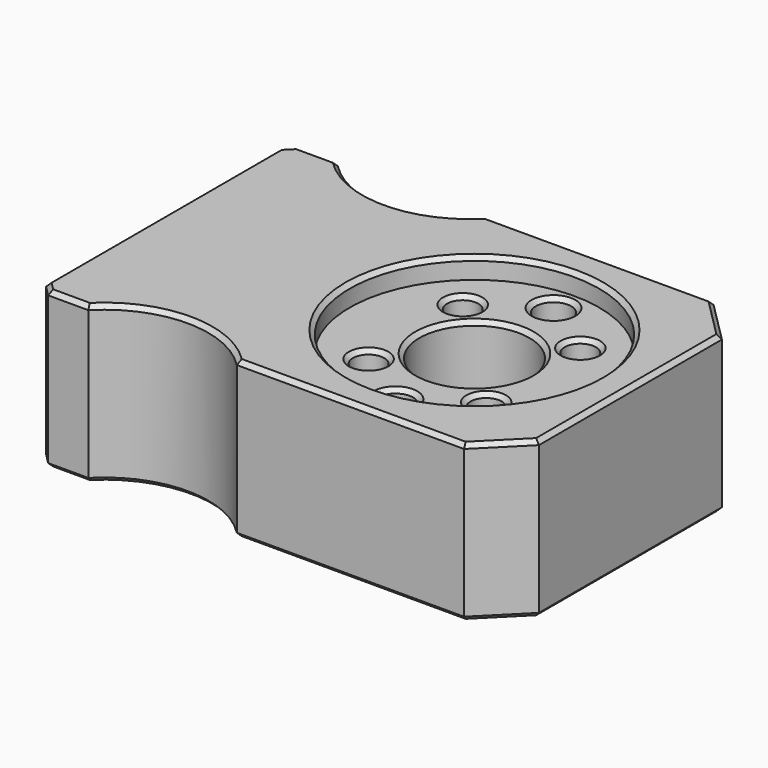
from build123d import *

# Parameters (mm, degrees)
CYLINDER007_R                   = 10
CYLINDER007_DEPTH               = 20
CYLINDER006_R                   = 10
CYLINDER006_DEPTH               = 20
BOX001_W                        = 18
BOX001_H                        = 20
BOX001_DEPTH                    = 10
CYLINDER005_R                   = 5.3
CYLINDER005_DEPTH               = 20
CYLINDER001_R                   = 1.7
CYLINDER001_DEPTH               = 20
CYLINDER_R                      = 1.7
CYLINDER_DEPTH                  = 20
CYLINDER010_R                   = 1.5
CYLINDER010_DEPTH               = 20
CYLINDER009_R                   = 1.5
CYLINDER009_DEPTH               = 20
CYLINDER011_R                   = 1.5
CYLINDER011_DEPTH               = 20
CYLINDER012_R                   = 1.5
CYLINDER012_DEPTH               = 20
FUSION002004003_PLACEMENT_ANGLE = 45
CYLINDER004_R                   = 12
CYLINDER004_DEPTH               = 2
BOX_W                           = 45
BOX_H                           = 30
BOX_DEPTH                       = 15
CHAMFER_SIZE                    = 1
CHAMFER004_SIZE                 = 4
CHAMFER005_SIZE                 = 0.4
CHAMFER006_SIZE                 = 0.4


with BuildPart() as cylinder003:
    # Cylinder007 → Cylinder007 (new body)
    with BuildSketch(Plane(origin=(-18, 22, 0), x_dir=(1, 0, 0), z_dir=(0, 0, 1))):
        Circle(CYLINDER007_R)
    extrude(amount=CYLINDER007_DEPTH)


with BuildPart() as fusion002004002:
    # Cylinder006 → Cylinder006 (new body)
    with BuildSketch(Plane(origin=(-18, -22, 0), x_dir=(1, 0, 0), z_dir=(0, 0, 1))):
        Circle(CYLINDER006_R)
    extrude(amount=CYLINDER006_DEPTH)

    # Fusion002004002: union Cylinder003
    add(cylinder003.part)


with BuildPart() as fusion002004002_1:
    # Fusion002004002 placement: moved
    add(fusion002004002.part.moved(Location((0, 0, -16))))


with BuildPart() as cube001:
    # Box001 → Box001 (new body)
    with BuildSketch(Plane(origin=(-28, -10, -13), x_dir=(1, 0, 0), z_dir=(0, 0, 1))):
        with Locations((9, 10)):
            Rectangle(BOX001_W, BOX001_H)
    extrude(amount=BOX001_DEPTH)


with BuildPart() as cylinder001:
    # Cylinder005 → Cylinder005 (new body)
    with BuildSketch(Plane.XY):
        Circle(CYLINDER005_R)
    extrude(amount=CYLINDER005_DEPTH)


with BuildPart() as cylinder001_body:
    # Cylinder001 → Cylinder001 (new body)
    with BuildSketch(Plane(origin=(0, -9.5, 0), x_dir=(1, 0, 0), z_dir=(0, 0, 1))):
        Circle(CYLINDER001_R)
    extrude(amount=CYLINDER001_DEPTH)


with BuildPart() as fusion002004004:
    # Cylinder → Cylinder (new body)
    with BuildSketch(Plane(origin=(0, 9.5, 0), x_dir=(1, 0, 0), z_dir=(0, 0, 1))):
        Circle(CYLINDER_R)
    extrude(amount=CYLINDER_DEPTH)

    # Fusion: union Cylinder001, Cylinder001 body
    add(cylinder001.part)
    add(cylinder001_body.part)


with BuildPart() as cylinder006:
    # Cylinder010 → Cylinder010 (new body)
    with BuildSketch(Plane(origin=(8, 0, 0), x_dir=(1, 0, 0), z_dir=(0, 0, 1))):
        Circle(CYLINDER010_R)
    extrude(amount=CYLINDER010_DEPTH)


with BuildPart() as cylinder005:
    # Cylinder009 → Cylinder009 (new body)
    with BuildSketch(Plane(origin=(0, 8, 0), x_dir=(1, 0, 0), z_dir=(0, 0, 1))):
        Circle(CYLINDER009_R)
    extrude(amount=CYLINDER009_DEPTH)


with BuildPart() as cylinder007:
    # Cylinder011 → Cylinder011 (new body)
    with BuildSketch(Plane(origin=(-8, 0, 0), x_dir=(1, 0, 0), z_dir=(0, 0, 1))):
        Circle(CYLINDER011_R)
    extrude(amount=CYLINDER011_DEPTH)


with BuildPart() as fusion002004005:
    # Cylinder012 → Cylinder012 (new body)
    with BuildSketch(Plane(origin=(0, -8, 0), x_dir=(1, 0, 0), z_dir=(0, 0, 1))):
        Circle(CYLINDER012_R)
    extrude(amount=CYLINDER012_DEPTH)

    # Fusion002004003: union Cylinder006, Cylinder005, Cylinder007
    add(cylinder006.part)
    add(cylinder005.part)
    add(cylinder007.part)


with BuildPart() as fusion002004005_1:
    # Fusion002004003 placement: moved
    add(fusion002004005.part.rotate(Axis((0, 0, 0), (0, 0, -1)), FUSION002004003_PLACEMENT_ANGLE))

    # Fusion002004005: union Fusion002004004
    add(fusion002004004.part)


with BuildPart() as fusion002004005_2:
    # Fusion002004005 placement: moved
    add(fusion002004005_1.part.moved(Location((0, 0, -17))))


with BuildPart() as cylinder:
    # Cylinder004 → Cylinder004 (new body)
    with BuildSketch(Plane.XY):
        Circle(CYLINDER004_R)
    extrude(amount=CYLINDER004_DEPTH)


with BuildPart() as base:
    # Box → Box (new body)
    with BuildSketch(Plane(origin=(-30, -15, -13), x_dir=(1, 0, 0), z_dir=(0, 0, 1))):
        with Locations((22.5, 15)):
            Rectangle(BOX_W, BOX_H)
    extrude(amount=BOX_DEPTH)

    # Cut: cut Cylinder
    add(cylinder.part, mode=Mode.SUBTRACT)

    # Cut017021010004016006: cut Fusion002004005
    add(fusion002004005_2.part, mode=Mode.SUBTRACT)

    # Cut017021010004016007: cut Cube001
    add(cube001.part, mode=Mode.SUBTRACT)

    # Cut017021010004016008: cut Fusion002004002
    add(fusion002004002_1.part, mode=Mode.SUBTRACT)

    # Chamfer
    chamfer_edges = [base.edges().sort_by_distance(p)[0] for p in [
        (-30, -15, -5.5),
        (-30, 15, -5.5),
    ]]
    chamfer(chamfer_edges, length=CHAMFER_SIZE)

    # Chamfer004
    chamfer004_edges = [base.edges().sort_by_distance(p)[0] for p in [
        (15, 15, -5.5),
        (15, -15, -5.5),
    ]]
    chamfer(chamfer004_edges, length=CHAMFER004_SIZE)

    # Chamfer005
    chamfer005_edges = [base.edges().sort_by_distance(p)[0] for p in [
        (0.070714, 15, 2),
        (13, 13, 2),
        (-18, 12, 2),
        (15, 0, 2),
        (-27.070714, 15, 2),
        (13, -13, 2),
        (-29.5, 14.5, 2),
        (0.070714, -15, 2),
        (-30, 0, 2),
        (-18, -12, 2),
        (-29.5, -14.5, 2),
        (-27.070714, -15, 2),
        (-12, 0, 2),
        (0.070714, 15, -13),
        (13, 13, -13),
        (-18, 12, -13),
        (15, 0, -13),
        (-27.070714, 15, -13),
        (13, -13, -13),
        (-29.5, 14.5, -13),
        (0.070714, -15, -13),
        (-30, 0, -13),
        (-18, -12, -13),
        (-29.5, -14.5, -13),
        (-27.070714, -15, -13),
        (-6.717514, -4.596194, -13),
        (-6.717514, 6.717514, -13),
        (4.596194, 6.717514, -13),
        (-5.3, 0, -13),
        (4.596194, -4.596194, -13),
        (-1.7, 9.5, -13),
        (-1.7, -9.5, -13),
        (-28, 0, -13),
        (-19, 10, -13),
        (-19, -10, -13),
        (-10, 0, -13),
    ]]
    chamfer(chamfer005_edges, length=CHAMFER005_SIZE)

    # Chamfer006
    chamfer006_edges = [base.edges().sort_by_distance(p)[0] for p in [
        (4.596194, -4.596194, 0),
        (-5.3, 0, 0),
        (-6.717514, -4.596194, 0),
        (-1.7, 9.5, 0),
        (-6.717514, 6.717514, 0),
        (4.596194, 6.717514, 0),
        (-1.7, -9.5, 0),
    ]]
    chamfer(chamfer006_edges, length=CHAMFER006_SIZE)


solid = base.part
